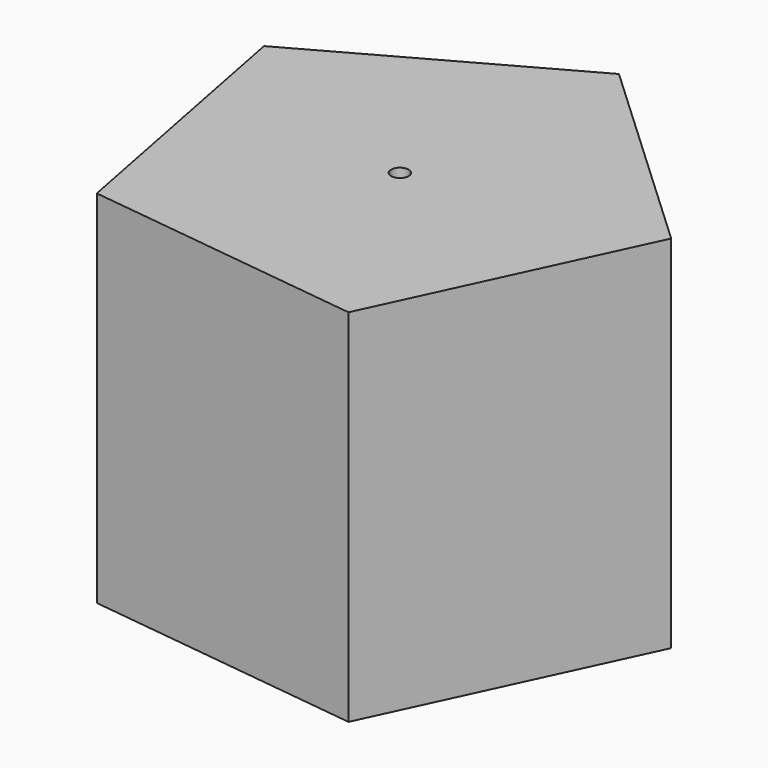
from build123d import *

# Parameters (mm, degrees)
F1_DEPTH = 130.302
F3_D     = 6.35


with BuildPart() as f1:
    # F0 (on Top) → F1 (new body)
    with BuildSketch(Plane.XY):
        Polygon((10.529077, 85.782359), (-78.330208, 36.521954), (-58.939808, -63.21055), (41.903403, -75.588223), (84.837535, 16.494459), align=None)
    extrude(amount=F1_DEPTH)

    # F3 (through all)
    with Locations(Plane.XY.offset(130.302)):
        with Locations((0, 0)):
            Hole(F3_D / 2)


solid = f1.part
